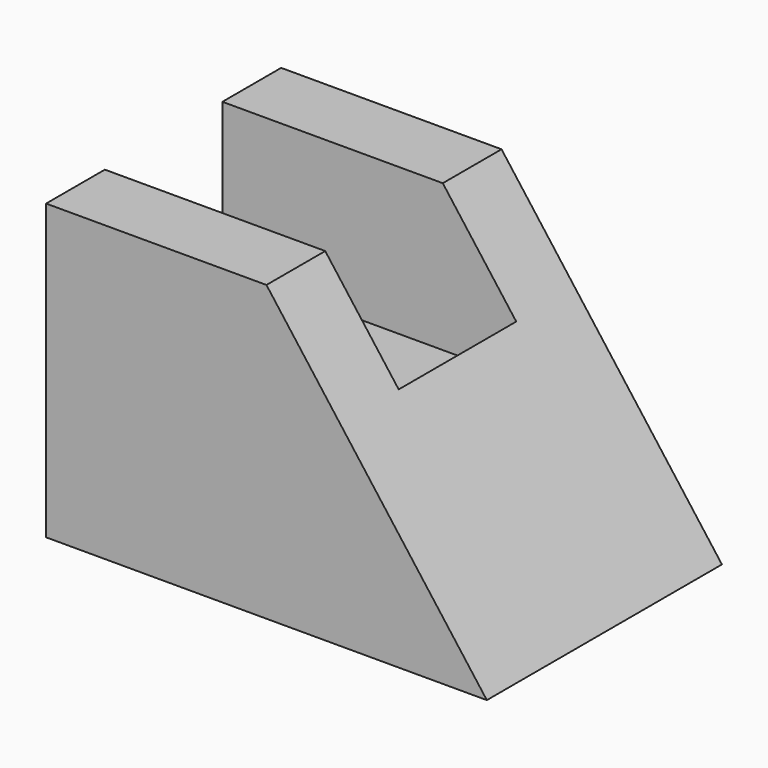
from build123d import *

# Parameters (mm, degrees)
F2_DEPTH = 25.4
F0_W     = 12.7
F0_H     = 12.7
F3_DEPTH = 25.4


with BuildPart() as f2:
    # F1 (on Front) → F2 (new body)
    with BuildSketch(Plane.XZ):
        Polygon((19.05, 25.4), (0, 25.4), (0, 0), (38.1, 0), align=None)
    extrude(amount=-F2_DEPTH)

    # F0 (on Right) → F3 (cut)
    with BuildSketch(Plane.YZ):
        with Locations((12.7, 19.05)):
            Rectangle(F0_W, F0_H)
    extrude(amount=F3_DEPTH, mode=Mode.SUBTRACT)


solid = f2.part
